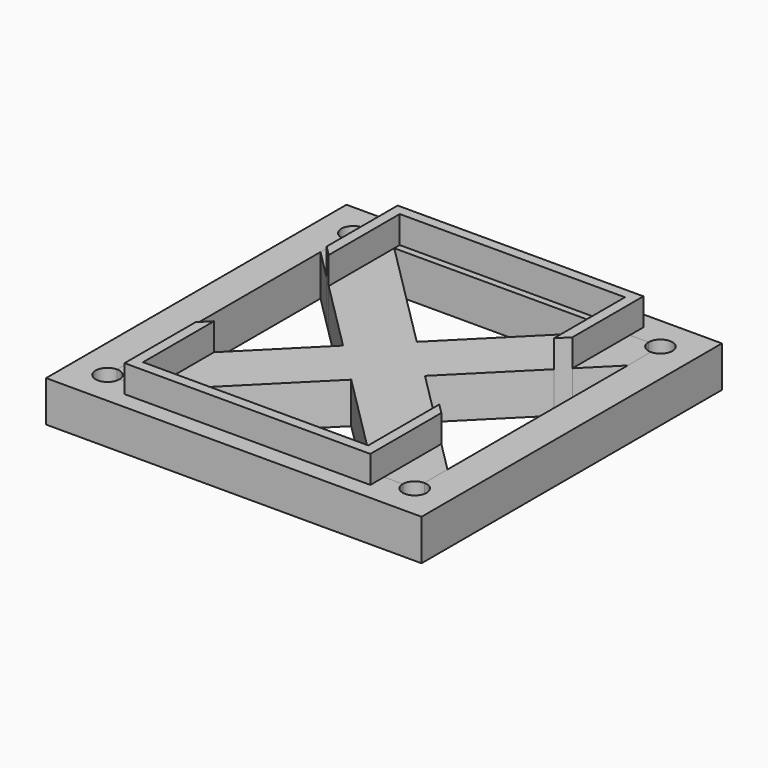
from build123d import *

# Parameters (mm, degrees)
F0_W     = 55
F0_H     = 55
F1_DEPTH = 6
F0_W_2   = 33
F0_H_2   = 1
F2_DEPTH = 10
F3_DEPTH = 6


with BuildPart() as f1:
    # F0 (on Top) → F1 (new body)
    with BuildSketch(Plane.XY):
        with Locations((-16.5, -13.9720915013)):
            Rectangle(F0_W, F0_H)
        with BuildLine():
            ThreePointArc((-39, 6.7779084987), (-40.2374368671, 9.7653453658), (-37.25, 8.5279084987))
            Line((-37.25, 8.5279084987), (-34.5, 8.5279084987))
            Line((-34.5, 8.5279084987), (-34.5, 11.0279084987))
            Line((-34.5, 11.0279084987), (1.5, 11.0279084987))
            Line((1.5, 11.0279084987), (1.5, 8.5279084987))
            Line((1.5, 8.5279084987), (4.25, 8.5279084987))
            ThreePointArc((4.25, 8.5279084987), (6, 10.2779084987), (7.75, 8.5279084987))
            ThreePointArc((7.75, 8.5279084987), (7.2374368671, 7.2904716317), (6, 6.7779084987))
            Line((6, 6.7779084987), (6, 2.5279084987))
            Line((6, 2.5279084987), (6, -30.4720915013))
            Line((6, -30.4720915013), (6, -34.7220915013))
            ThreePointArc((6, -34.7220915013), (7.2374368671, -35.2346546342), (7.75, -36.4720915013))
            ThreePointArc((7.75, -36.4720915013), (6, -38.2220915013), (4.25, -36.4720915013))
            Line((4.25, -36.4720915013), (1.5, -36.4720915013))
            Line((1.5, -36.4720915013), (1.5, -38.9720915013))
            Line((1.5, -38.9720915013), (-34.5, -38.9720915013))
            Line((-34.5, -38.9720915013), (-34.5, -36.4720915013))
            Line((-34.5, -36.4720915013), (-37.25, -36.4720915013))
            ThreePointArc((-37.25, -36.4720915013), (-40.2374368671, -37.7095283683), (-39, -34.7220915013))
            Line((-39, -34.7220915013), (-39, -30.4720915013))
            Line((-39, -30.4720915013), (-39, 2.5279084987))
            Line((-39, 2.5279084987), (-39, 6.7779084987))
        make_face(mode=Mode.SUBTRACT)
        with BuildLine():
            Line((-34.5, 8.5279084987), (-37.25, 8.5279084987))
            ThreePointArc((-37.25, 8.5279084987), (-37.7625631329, 7.2904716317), (-39, 6.7779084987))
            Line((-39, 6.7779084987), (-39, 2.5279084987))
            Line((-39, 2.5279084987), (-34.5, -1.9720915013))
            Line((-34.5, -1.9720915013), (-34.5, 8.5279084987))
        make_face()
        with BuildLine():
            Line((4.25, 8.5279084987), (1.5, 8.5279084987))
            Line((1.5, 8.5279084987), (1.5, -1.9720915013))
            Line((1.5, -1.9720915013), (6, 2.5279084987))
            Line((6, 2.5279084987), (6, 6.7779084987))
            ThreePointArc((6, 6.7779084987), (4.7625631329, 7.2904716317), (4.25, 8.5279084987))
        make_face()
    extrude(amount=F1_DEPTH)


with BuildPart() as f1b:
    # F0 (on Top) → F1, piece 2 (new body)
    with BuildSketch(Plane.XY):
        with Locations((-16.5, 9.0279084987)):
            Rectangle(F0_W_2, F0_H_2)
    extrude(amount=F1_DEPTH)


with BuildPart() as f1c:
    # F0 (on Top) → F1, piece 3 (new body)
    with BuildSketch(Plane.XY):
        with Locations((-16.5, -36.9720915013)):
            Rectangle(F0_W_2, F0_H_2)
    extrude(amount=F1_DEPTH)


with BuildPart() as f2:
    # F0 (on Top) → F2 (new body)
    with BuildSketch(Plane.XY):
        Polygon((-34.5, 11.0279084987), (-34.5, 8.5279084987), (-33, 8.5279084987), (-33, 9.5279084987), (0, 9.5279084987), (0, 8.5279084987), (1.5, 8.5279084987), (1.5, 11.0279084987), align=None)
        Polygon((1.5, 8.5279084987), (0, 8.5279084987), (0, -3.4720915013), (1.5, -1.9720915013), align=None)
        Polygon((-33, 8.5279084987), (-34.5, 8.5279084987), (-34.5, -1.9720915013), (-33, -3.4720915013), align=None)
    extrude(amount=F2_DEPTH)


with BuildPart() as f2b:
    # F0 (on Top) → F2, piece 2 (new body)
    with BuildSketch(Plane.XY):
        Polygon((-33, -36.4720915013), (-34.5, -36.4720915013), (-34.5, -38.9720915013), (1.5, -38.9720915013), (1.5, -36.4720915013), (0, -36.4720915013), (0, -37.4720915013), (-33, -37.4720915013), align=None)
        Polygon((-33, -24.4720915013), (-34.5, -25.9720915013), (-34.5, -36.4720915013), (-33, -36.4720915013), align=None)
        Polygon((1.5, -25.9720915013), (0, -24.4720915013), (0, -36.4720915013), (1.5, -36.4720915013), align=None)
    extrude(amount=F2_DEPTH)


with BuildPart() as f3:
    # F0 (on Top) → F3 (new body)
    with BuildSketch(Plane.XY):
        Polygon((-16.5, -7.9720915013), (-33, 8.5279084987), (-33, -3.4720915013), (-22.5, -13.9720915013), align=None)
        Polygon((0, -24.4720915013), (-10.5, -13.9720915013), (-16.5, -19.9720915013), (0, -36.4720915013), align=None)
        Polygon((-22.5, -13.9720915013), (-33, -24.4720915013), (-33, -36.4720915013), (-16.5, -19.9720915013), align=None)
        Polygon((0, -3.4720915013), (0, 8.5279084987), (-16.5, -7.9720915013), (-10.5, -13.9720915013), align=None)
        Polygon((-10.5, -13.9720915013), (-16.5, -7.9720915013), (-22.5, -13.9720915013), (-16.5, -19.9720915013), align=None)
    extrude(amount=F3_DEPTH)


with BuildPart() as f3b:
    # F0 (on Top) → F3, piece 2 (new body)
    with BuildSketch(Plane.XY):
        with BuildLine():
            Line((6, -30.4720915013), (1.5, -25.9720915013))
            Line((1.5, -25.9720915013), (1.5, -36.4720915013))
            Line((1.5, -36.4720915013), (4.25, -36.4720915013))
            ThreePointArc((4.25, -36.4720915013), (4.7625631329, -35.2346546342), (6, -34.7220915013))
            Line((6, -34.7220915013), (6, -30.4720915013))
        make_face()
    extrude(amount=F3_DEPTH)


with BuildPart() as f3c:
    # F0 (on Top) → F3, piece 3 (new body)
    with BuildSketch(Plane.XY):
        with BuildLine():
            Line((4.25, 8.5279084987), (1.5, 8.5279084987))
            Line((1.5, 8.5279084987), (1.5, -1.9720915013))
            Line((1.5, -1.9720915013), (6, 2.5279084987))
            Line((6, 2.5279084987), (6, 6.7779084987))
            ThreePointArc((6, 6.7779084987), (4.7625631329, 7.2904716317), (4.25, 8.5279084987))
        make_face()
    extrude(amount=F3_DEPTH)


with BuildPart() as f3d:
    # F0 (on Top) → F3, piece 4 (new body)
    with BuildSketch(Plane.XY):
        with BuildLine():
            Line((-34.5, 8.5279084987), (-37.25, 8.5279084987))
            ThreePointArc((-37.25, 8.5279084987), (-37.7625631329, 7.2904716317), (-39, 6.7779084987))
            Line((-39, 6.7779084987), (-39, 2.5279084987))
            Line((-39, 2.5279084987), (-34.5, -1.9720915013))
            Line((-34.5, -1.9720915013), (-34.5, 8.5279084987))
        make_face()
    extrude(amount=F3_DEPTH)


with BuildPart() as f3e:
    # F0 (on Top) → F3, piece 5 (new body)
    with BuildSketch(Plane.XY):
        with BuildLine():
            Line((-34.5, -25.9720915013), (-39, -30.4720915013))
            Line((-39, -30.4720915013), (-39, -34.7220915013))
            ThreePointArc((-39, -34.7220915013), (-37.7625631329, -35.2346546342), (-37.25, -36.4720915013))
            Line((-37.25, -36.4720915013), (-34.5, -36.4720915013))
            Line((-34.5, -36.4720915013), (-34.5, -25.9720915013))
        make_face()
    extrude(amount=F3_DEPTH)


solid = Compound([f1.part, f1b.part, f1c.part, f2.part, f2b.part, f3.part, f3b.part, f3c.part, f3d.part, f3e.part])
